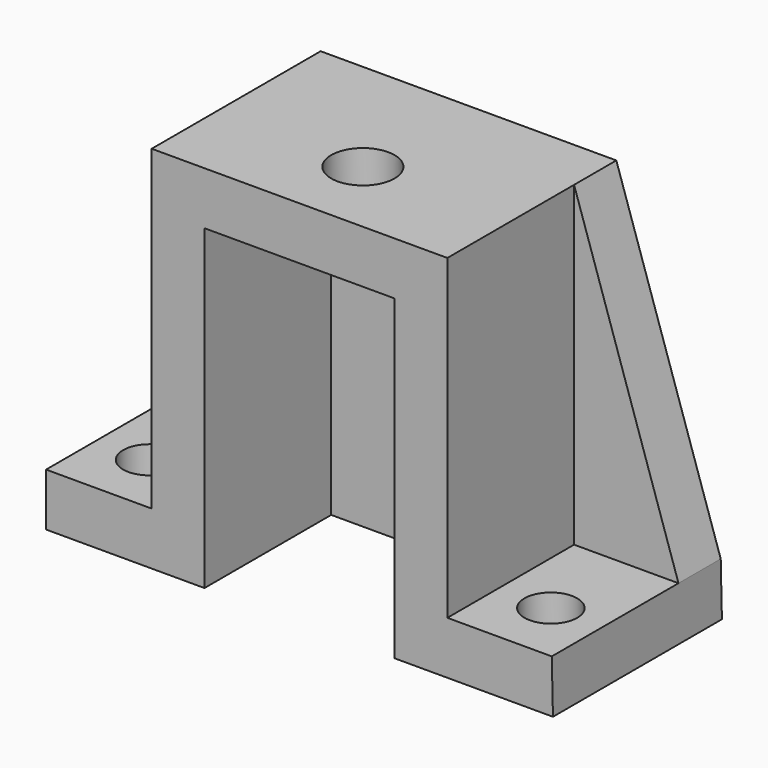
from build123d import *

# Parameters (mm, degrees)
F1_DEPTH = 40
F0_W     = 36
F0_H     = 60
F2_DEPTH = 10
F3_DEPTH = 10
F4_R     = 6
F5_DEPTH = 25
F4_R_2   = 5
F6_DEPTH = 70


with BuildPart() as f1:
    # F0 (on Front) → F1 (new body)
    with BuildSketch(Plane.XZ):
        Polygon((-53.163718, -6.869469), (-53.163718, -16.869469), (-23.163718, -16.869469), (-23.163718, 43.130531), (12.836282, 43.130531), (12.836282, -16.869469), (42.836282, -16.869469), (42.610623, -6.869469), (22.836282, -6.869469), (22.836282, 53.130531), (-33.163718, 53.130531), (-33.163718, -6.869469), align=None)
    extrude(amount=F1_DEPTH)

    # F0 (on Front) → F2 (join)
    with BuildSketch(Plane.XZ):
        with Locations((-5.163718, 13.130531)):
            Rectangle(F0_W, F0_H)
    extrude(amount=F2_DEPTH)

    # F0 (on Front) → F3 (join)
    with BuildSketch(Plane.XZ):
        Polygon((-33.163718, 53.130531), (-53.163718, -6.869469), (-33.163718, -6.869469), align=None)
        Polygon((42.610623, -6.869469), (22.836282, 53.130531), (22.836282, -6.869469), align=None)
    extrude(amount=F3_DEPTH)

    # F4 (on face) → F5 (cut)
    with BuildSketch(Plane.XY.offset(53.130531)):
        with Locations((-5.163718, -25)):
            Circle(F4_R)
    extrude(amount=-F5_DEPTH, mode=Mode.SUBTRACT)

    # F4 (on face) → F6 (cut)
    with BuildSketch(Plane.XY.offset(53.130531)):
        with Locations((32.836282, -28)):
            Circle(F4_R_2)
        with BuildLine():
            ThreePointArc((-43.163718, -33), (-39.628185, -31.535534), (-38.163718, -28))
            ThreePointArc((-38.163718, -28), (-46.699252, -24.464466), (-43.163718, -33))
        make_face()
    extrude(amount=-F6_DEPTH, mode=Mode.SUBTRACT)


solid = f1.part
